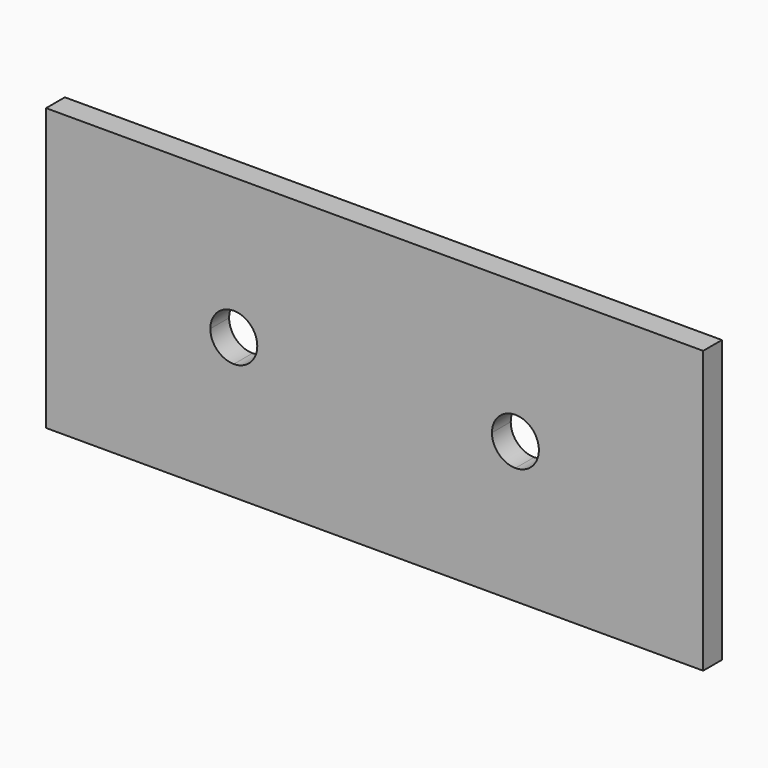
from build123d import *

# Parameters (mm, degrees)
F0_W     = 177.8
F0_H     = 76.2
F1_DEPTH = 6.35
F3_DEPTH = 6.351


with BuildPart() as f1:
    # F0 (on Front) → F1 (new body)
    with BuildSketch(Plane.XZ):
        with Locations((88.9, -38.1)):
            Rectangle(F0_W, F0_H)
    extrude(amount=F1_DEPTH)

    # F2 (on face) → F3 (cut, through all)
    with BuildSketch(Plane.XZ.offset(6.35)):
        with BuildLine():
            ThreePointArc((50.8, -31.75), (46.309872, -33.609872), (44.45, -38.1))
            Line((44.45, -38.1), (50.8, -38.1))
            Line((50.8, -38.1), (50.8, -31.75))
        make_face()
        with BuildLine():
            ThreePointArc((127, -31.75), (122.509872, -33.609872), (120.65, -38.1))
            Line((120.65, -38.1), (127, -38.1))
            Line((127, -38.1), (127, -31.75))
        make_face()
        with BuildLine():
            Line((127, -38.1), (120.65, -38.1))
            ThreePointArc((120.65, -38.1), (122.509872, -42.590128), (127, -44.45))
            Line((127, -44.45), (127, -38.1))
        make_face()
        with BuildLine():
            Line((50.8, -38.1), (44.45, -38.1))
            ThreePointArc((44.45, -38.1), (46.309872, -42.590128), (50.8, -44.45))
            Line((50.8, -44.45), (50.8, -38.1))
        make_face()
        with BuildLine():
            Line((50.8, -31.75), (50.8, -38.1))
            Line((50.8, -38.1), (57.15, -38.1))
            ThreePointArc((57.15, -38.1), (55.290128, -33.609872), (50.8, -31.75))
        make_face()
        with BuildLine():
            Line((57.15, -38.1), (50.8, -38.1))
            Line((50.8, -38.1), (50.8, -44.45))
            ThreePointArc((50.8, -44.45), (55.290128, -42.590128), (57.15, -38.1))
        make_face()
        with BuildLine():
            Line((127, -31.75), (127, -38.1))
            Line((127, -38.1), (133.35, -38.1))
            ThreePointArc((133.35, -38.1), (131.490128, -33.609872), (127, -31.75))
        make_face()
        with BuildLine():
            Line((133.35, -38.1), (127, -38.1))
            Line((127, -38.1), (127, -44.45))
            ThreePointArc((127, -44.45), (131.490128, -42.590128), (133.35, -38.1))
        make_face()
    extrude(amount=-F3_DEPTH, mode=Mode.SUBTRACT)


solid = f1.part
